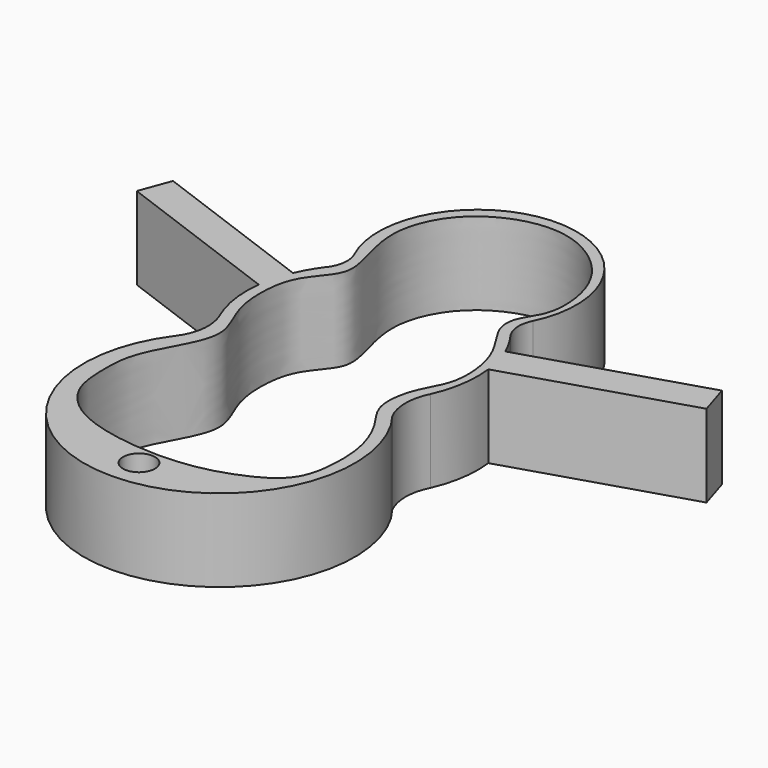
from build123d import *

# Parameters (mm, degrees)
F0_R     = 4.8349545832
F1_DEPTH = 25


with BuildPart() as f1:
    # F0 (on Top) → F1 (new body)
    with BuildSketch(Plane.XY):
        with BuildLine():
            ThreePointArc((23.0689195825, 21.2264976855), (21.707820918, 25.6426803037), (22.7176938203, 30.1521608961))
            ThreePointArc((22.7176938203, 30.1521608961), (-4.3807379292, 73.0236408702), (-31.4791696786, 30.1521608961))
            ThreePointArc((-31.4791696786, 30.1521608961), (-30.8181959127, 25.7803838783), (-32.3189206602, 21.6214001269))
            ThreePointArc((-32.3189206602, 21.6214001269), (-32.6171459193, 21.2061974828), (-32.9384643664, 20.8085971856))
            ThreePointArc((-32.9384643664, 20.8085971856), (-35.1372986602, 17.4471000998), (-36.9365052936, 13.8558064053))
            ThreePointArc((-36.9365052936, 13.8558064053), (-38.5917532789, 9.1017733293), (-39.5478918439, 4.1594585451))
            ThreePointArc((-39.5478918439, 4.1594585451), (-39.3993473854, -5.253898825), (-36.7471153337, -14.2871168329))
            ThreePointArc((-36.7471153337, -14.2871168329), (-35.76187407, -21.6789995665), (-38.5360746716, -28.6010254056))
            ThreePointArc((-38.5360746716, -28.6010254056), (-7.8791179088, -94.036057725), (29.6778694824, -32.3022327123))
            ThreePointArc((29.6778694824, -32.3022327123), (28.4111134793, -30.505090456), (27.1683139281, -28.6912987545))
            ThreePointArc((27.1683139281, -28.6912987545), (25.4441670498, -21.4907647777), (27.1552568477, -14.2871168329))
            ThreePointArc((27.1552568477, -14.2871168329), (29.8101080817, -5.2366192032), (29.9518620369, 4.1941627494))
            ThreePointArc((29.9518620369, 4.1941627494), (28.9953456747, 9.1186478951), (27.3446468075, 13.8558064053))
            ThreePointArc((27.3446468075, 13.8558064053), (25.5454401741, 17.4471000998), (23.3466058803, 20.8085971856))
            ThreePointArc((23.3466058803, 20.8085971856), (23.2025174152, 21.0140620307), (23.0689195825, 21.2264976855))
        make_face()
        with Locations((-4.6436120756, -84.778778255)):
            Circle(F0_R, mode=Mode.SUBTRACT)
        with BuildLine():
            ThreePointArc((-36.0498294696, -15.7541651835), (-36.4069841417, -15.0246866254), (-36.7471153337, -14.2871168329))
            ThreePointArc((-36.7471153337, -14.2871168329), (-36.3798434695, -15.0117867049), (-36.0498294696, -15.7541651835))
        make_face(mode=Mode.SUBTRACT)
        with BuildLine():
            add(Edge.make_bspline(
                [(-34.7149111331, -31.530443579), (-36.7530862611, -35.4403068315), (-41.0113801253, -42.9192907391), (-41.2081853659, -53.5634145039), (-40.459288153, -64.3912784573), (-31.4968426386, -74.2753358268), (-14.7398743274, -78.7067854042), (2.2099702374, -79.2262978209), (15.8104869398, -76.2407752665), (29.9920629468, -69.1934224809), (31.9066302741, -56.7957464144), (31.6790155851, -45.7223840469), (27.3351396716, -34.6667506514), (20.3727082043, -26.9575765037), (22.6235466404, -14.1238438179), (28.9338494343, -5.9418839626), (26.9909425273, 11.5886890659), (17.9923744405, 21.4626152141), (18.6331131496, 29.1819112702), (23.9604815413, 35.2824999934), (23.665628157, 48.8150186692), (17.3205150344, 61.0197453417), (4.8134450613, 69.657161628), (-9.6826992433, 70.4757658109), (-25.4654362336, 62.4967351753), (-32.9617971334, 45.5833043377), (-28.2405875561, 30.519996629), (-26.4119099177, 21.1057825609), (-34.8508901886, 13.372488554), (-36.9622253109, 3.2022192148), (-36.1044863055, -9.0767271374), (-29.2362356919, -20.3580676179), (-32.7805801834, -27.8197862394), (-34.7149111331, -31.530443579)],
                knots=[0, 0, 0, 0, 0.0329940483, 0.0626516143, 0.0921797665, 0.1243230333, 0.1623558274, 0.200146038, 0.2347329348, 0.2697197428, 0.3007797338, 0.3314710822, 0.3627094977, 0.391604538, 0.4229053306, 0.4523101064, 0.4895697719, 0.5226720901, 0.546160045, 0.5714167494, 0.6041345281, 0.6380910651, 0.6729419558, 0.7071408995, 0.7446688388, 0.7827802852, 0.8188014718, 0.8458494655, 0.8752387087, 0.9045263886, 0.9365901418, 0.9686869848, 1, 1, 1, 1], degree=3))
        make_face(mode=Mode.SUBTRACT)
        with BuildLine():
            ThreePointArc((-39.5478918439, 4.1594585451), (-38.5917532789, 9.1017733293), (-36.9365052936, 13.8558064053))
            Line((-36.9365052936, 13.8558064053), (-88.5187190835, 32.9418018083))
            Line((-88.5187190835, 32.9418018083), (-91.9889000659, 23.5632174828))
            Line((-91.9889000659, 23.5632174828), (-39.5478918439, 4.1594585451))
        make_face()
        with BuildLine():
            Line((79.861668403, 30.1947917696), (27.3446468075, 13.8558064053))
            ThreePointArc((27.3446468075, 13.8558064053), (28.9953456747, 9.1186478951), (29.9518620369, 4.1941627494))
            Line((29.9518620369, 4.1941627494), (82.8323930147, 20.6462423886))
            Line((82.8323930147, 20.6462423886), (79.861668403, 30.1947917696))
        make_face()
        with BuildLine():
            ThreePointArc((-36.0498294696, -15.7541651835), (-36.3798434695, -15.0117867049), (-36.7471153337, -14.2871168329))
            ThreePointArc((-36.7471153337, -14.2871168329), (-36.4069841417, -15.0246866254), (-36.0498294696, -15.7541651835))
        make_face()
        with BuildLine():
            ThreePointArc((-32.9384643664, 20.8085971856), (-32.6171459193, 21.2061974828), (-32.3189206602, 21.6214001269))
            ThreePointArc((-32.3189206602, 21.6214001269), (-32.6316594008, 21.2172601103), (-32.9384643664, 20.8085971856))
        make_face()
        with BuildLine():
            ThreePointArc((23.3466058803, 20.8085971856), (23.2048499361, 21.0156119429), (23.0689195825, 21.2264976855))
            ThreePointArc((23.0689195825, 21.2264976855), (23.2025174152, 21.0140620307), (23.3466058803, 20.8085971856))
        make_face()
    extrude(amount=F1_DEPTH)


solid = f1.part
